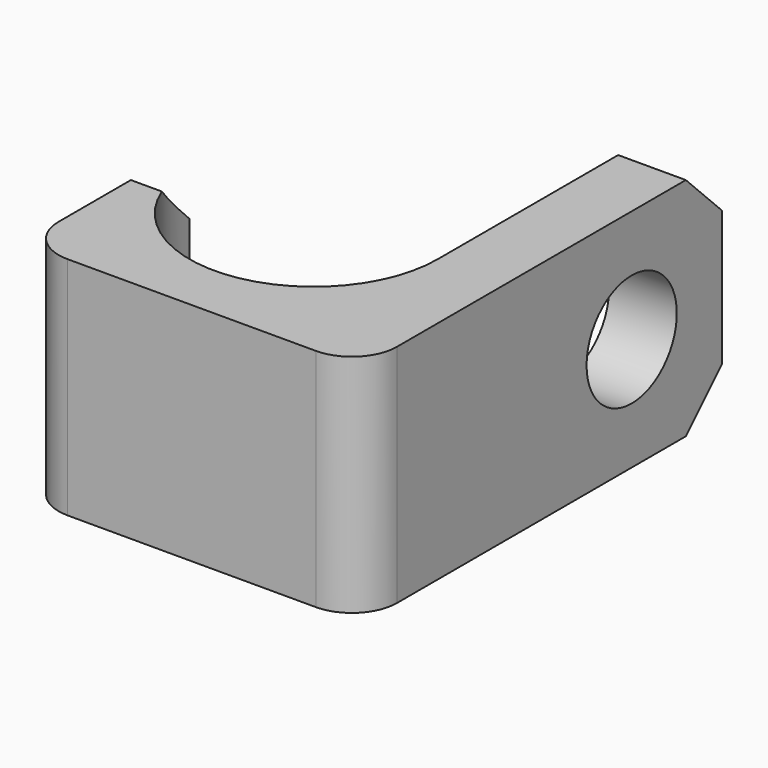
from build123d import *

# Parameters (mm, degrees)
F1_DEPTH = 10
F2_SIZE  = 2
F3_R     = 2.5
F4_DEPTH = 25


with BuildPart() as f1:
    # F0 (on Top) → F1 (new body)
    with BuildSketch(Plane.XY):
        with BuildLine():
            ThreePointArc((-2, 0), (-0.585786, 0.585786), (0, 2))
            Line((0, 2), (0, 20))
            Line((0, 20), (-3, 20))
            Line((-3, 20), (-3, 8))
            ThreePointArc((-3, 8), (-8.5, 2.5), (-14, 8))
            Line((-14, 8), (-15, 8))
            Line((-15, 8), (-15, 2))
            ThreePointArc((-15, 2), (-14.414214, 0.585786), (-13, 0))
            Line((-13, 0), (-2, 0))
        make_face()
    extrude(amount=F1_DEPTH)

    # F2
    f2_edges = [f1.edges().sort_by_distance(p)[0] for p in [
        (-1.5, 20, 10),
        (-1.5, 20, 0),
        (-14.5, 8, 10),
        (-14.5, 8, 0),
    ]]
    chamfer(f2_edges, length=F2_SIZE)

    # F3 (on face) → F4 (cut)
    with BuildSketch(Plane(origin=(-3, 0, 0), x_dir=(0, -1, 0), z_dir=(-1, 0, 0))):
        with Locations((-15, 5)):
            Circle(F3_R)
    extrude(amount=-F4_DEPTH, mode=Mode.SUBTRACT)


solid = f1.part
